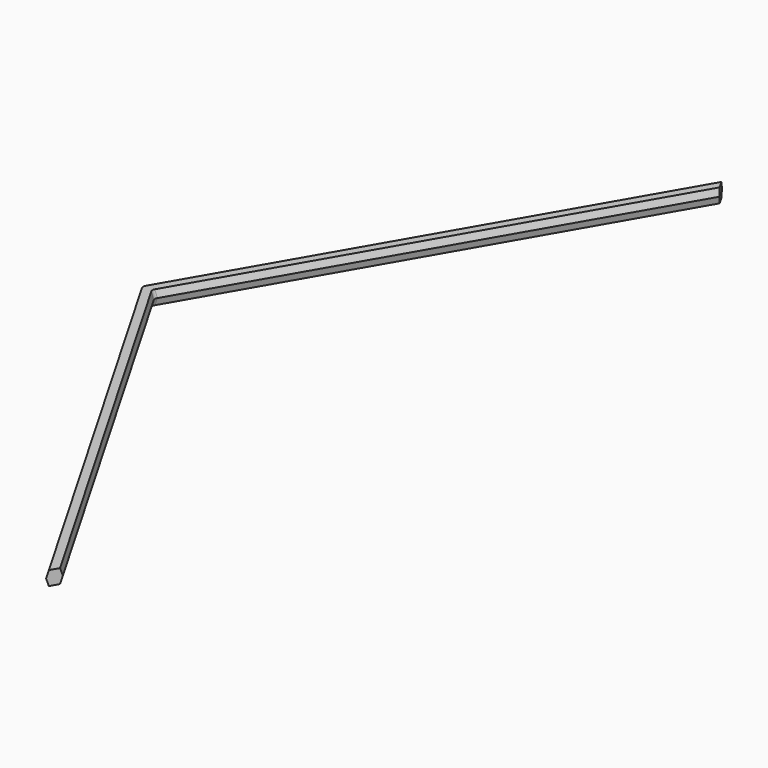
from build123d import *

# Parameters (mm, degrees)
POCKET_DEPTH = 100
FILLET002_R  = 1


with BuildPart() as part:
    # AdditivePipe: sweep along a path in Sketch005
    with BuildLine(Plane.XY) as additivepipe_path:
        Line((66.666667, 115.470054), (0, 0))
        Line((0, 0), (66.666667, -115.470054))
    # Sketch004 → AdditivePipe (sweep)
    with BuildSketch(Plane.XZ):
        Polygon((-103.5, 6.85), (-104, 8.35), (-103.5, 9.85), (-101.5, 9.85), (-101, 8.35), (-101.5, 6.85), align=None)
    sweep(path=additivepipe_path.line)

    # Sketch006 → Pocket (cut)
    with BuildSketch(Plane.XY):
        Polygon((0, 0), (-115.470054, 200), (34.529946, 200), (150, 0), (34.529946, -200), (-115.470054, -200), align=None)
    extrude(amount=POCKET_DEPTH, mode=Mode.SUBTRACT)

    # Fillet002
    fillet002_edges = [part.edges().sort_by_distance(p)[0] for p in [
        (-103.75, 0, 9.1),
        (-103.75, 0, 7.6),
        (-101.25, 0, 9.1),
        (-101.25, 0, 7.6),
    ]]
    fillet(fillet002_edges, radius=FILLET002_R)


solid = part.part
